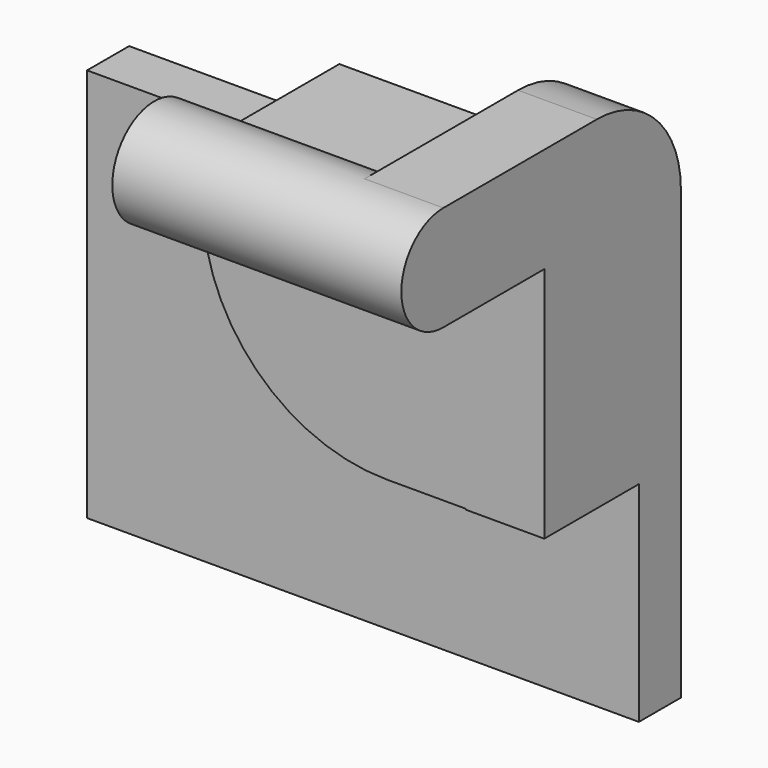
from build123d import *

# Parameters (mm, degrees)
F3_DEPTH  = 2
F4_DEPTH  = 2
F5_W      = 13
F5_H      = 4.5
F5_H_2    = 2
F6_DEPTH  = 2
F7_R      = 2
F8_DEPTH  = 11
F10_DEPTH = 3


with BuildPart() as f3:
    # F0 (on Front) → F3 (new body)
    with BuildSketch(Plane.XZ):
        with BuildLine():
            Line((0, 0), (-7, 0))
            ThreePointArc((-7, 0), (-4.9497474683, -4.9497474683), (0, -7))
            Line((0, -7), (6, -7))
            Line((6, -7), (6, 0))
            Line((6, 0), (0, 0))
        make_face()
    extrude(amount=F3_DEPTH)



with BuildPart() as f4:
    # F2 (on offset) → F4 (new body)
    with BuildSketch(Plane.XZ.offset(-2.5)):
        Polygon((6, 0), (0, 0), (-15, 0), (-15, -15), (0, -15), (6, -15), align=None)
    extrude(amount=-F4_DEPTH)


with BuildPart() as f6:
    # F5 (on face) → F6 (new body)
    with BuildSketch(Plane.XY):
        with Locations((-0.5, 2.25)):
            Rectangle(F5_W, F5_H)
        with Locations((-0.5, -1)):
            Rectangle(F5_W, F5_H_2)
    extrude(amount=F6_DEPTH)


with BuildPart() as f8:
    # F7 (on face) → F8 (new body)
    with BuildSketch(Plane.YZ.offset(6)):
        with Locations((-6.8, 4)):
            Circle(F7_R)
    extrude(amount=-F8_DEPTH)


with BuildPart() as f3_1:
    add(f3.part)

    add(f4.part)  # F10 merges F4

    add(f6.part)  # F10 merges F6

    add(f8.part)  # F10 merges F8
    # F9 (on face) → F10 (join)
    with BuildSketch(Plane.YZ.offset(6)):
        with BuildLine():
            Line((-6.8, 2), (-2, 2))
            Line((-2, 2), (-2, -7.0320754312))
            Line((-2, -7.0320754312), (4.5, -7.0320754312))
            Line((4.5, -7.0320754312), (4.5, 2))
            ThreePointArc((4.5, 2), (3.3284271247, 4.8284271247), (0.5, 6))
            Line((0.5, 6), (-6.8, 6))
            ThreePointArc((-6.8, 6), (-5.3857864376, 5.4142135624), (-4.8, 4))
            ThreePointArc((-4.8, 4), (-5.3857864376, 2.5857864376), (-6.8, 2))
        make_face()
    extrude(amount=-F10_DEPTH)


solid = f3_1.part
